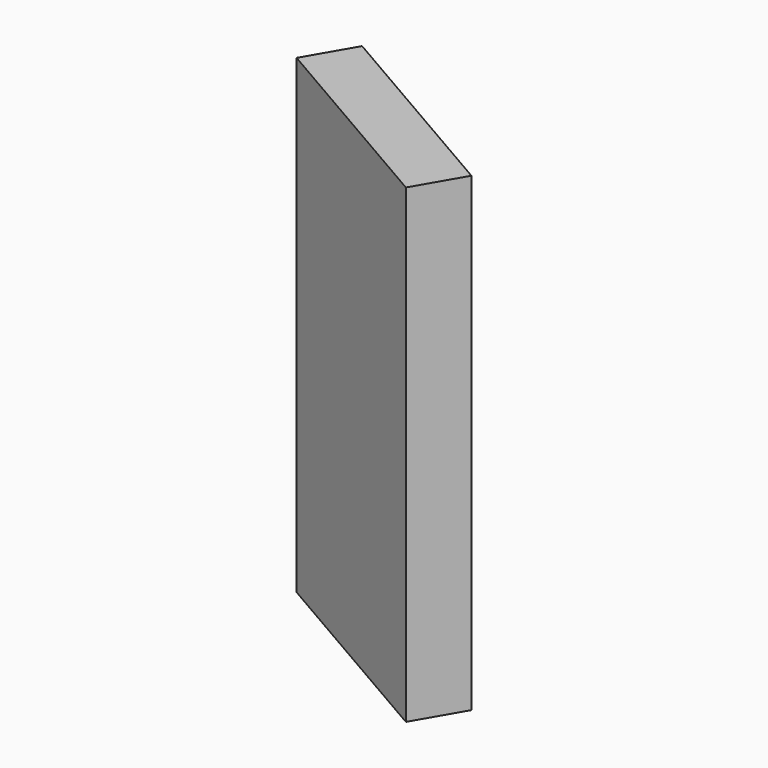
from build123d import *

# Parameters (mm, degrees)
F1_DEPTH = 30


with BuildPart() as f1:
    # F0 (on Top) → F1 (new body)
    with BuildSketch(Plane.XY):
        Polygon((-12.999388, -7.484399), (-0.018015, -15), (1.735624, -11.971015), (-11.245749, -4.455414), align=None)
    extrude(amount=-F1_DEPTH)


solid = f1.part
